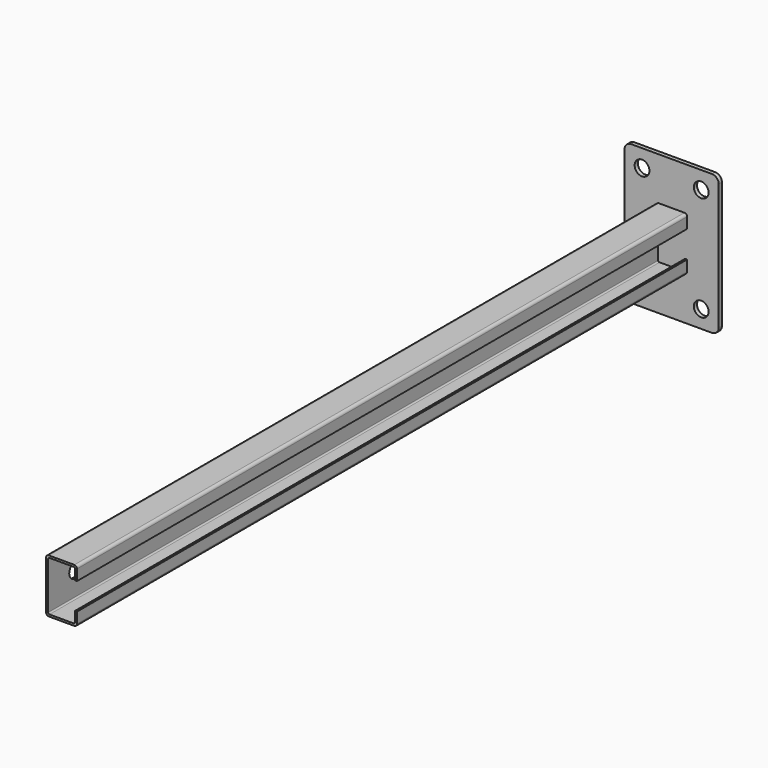
from build123d import *

# Parameters (mm, degrees)
F0_W     = 70
F0_H     = 104
F1_DEPTH = 3
F2_R     = 5
F4_D     = 11
F6_DEPTH = 444
F9_DEPTH = 123
F10_D    = 11


with BuildPart() as f1:
    # F0 (on Front) → F1 (new body)
    with BuildSketch(Plane.XZ):
        with Locations((-71.837332, 40.87914)):
            Rectangle(F0_W, F0_H)
    extrude(amount=F1_DEPTH)

    # F2
    f2_edges = [f1.edges().sort_by_distance(p)[0] for p in [
        (-36.837332, -1.5, 92.87914),
        (-106.837332, -1.5, 92.87914),
        (-106.837332, -1.5, -11.12086),
        (-36.837332, -1.5, -11.12086),
    ]]
    fillet(f2_edges, radius=F2_R)

    # F4 (through all)
    with Locations(Plane.XZ.offset(3)):
        with Locations((-49.837332, 1.87914), (-93.837332, 1.87914), (-93.837332, 79.87914), (-49.837332, 79.87914)):
            Hole(F4_D / 2)

    # F5 (on face) → F6 (join)
    with BuildSketch(Plane.XZ.offset(3)):
        with BuildLine():
            ThreePointArc((-60.337332, 58.87914), (-60.923118, 60.293354), (-62.337332, 60.87914))
            Line((-62.337332, 60.87914), (-81.337332, 60.87914))
            ThreePointArc((-81.337332, 60.87914), (-82.751546, 60.293354), (-83.337332, 58.87914))
            Line((-83.337332, 58.87914), (-83.337332, 22.87914))
            ThreePointArc((-83.337332, 22.87914), (-82.751546, 21.464927), (-81.337332, 20.87914))
            Line((-81.337332, 20.87914), (-62.337332, 20.87914))
            ThreePointArc((-62.337332, 20.87914), (-60.923118, 21.464927), (-60.337332, 22.87914))
            Line((-60.337332, 22.87914), (-60.337332, 30.87914))
            Line((-60.337332, 30.87914), (-61.837332, 30.87914))
            Line((-61.837332, 30.87914), (-61.837332, 23.37914))
            ThreePointArc((-61.837332, 23.37914), (-62.130225, 22.672034), (-62.837332, 22.37914))
            Line((-62.837332, 22.37914), (-80.837332, 22.37914))
            ThreePointArc((-80.837332, 22.37914), (-81.544439, 22.672034), (-81.837332, 23.37914))
            Line((-81.837332, 23.37914), (-81.837332, 58.37914))
            ThreePointArc((-81.837332, 58.37914), (-81.544439, 59.086247), (-80.837332, 59.37914))
            Line((-80.837332, 59.37914), (-62.837332, 59.37914))
            ThreePointArc((-62.837332, 59.37914), (-62.130225, 59.086247), (-61.837332, 58.37914))
            Line((-61.837332, 58.37914), (-61.837332, 50.87914))
            Line((-61.837332, 50.87914), (-60.337332, 50.87914))
            Line((-60.337332, 50.87914), (-60.337332, 58.87914))
        make_face()
    extrude(amount=F6_DEPTH)

    # F7 (on face) → F9 (join)
    with BuildSketch(Plane.XZ.offset(447)):
        with BuildLine():
            ThreePointArc((-62.837332, 59.37914), (-62.130225, 59.086247), (-61.837332, 58.37914))
            Line((-61.837332, 58.37914), (-61.837332, 50.87914))
            Line((-61.837332, 50.87914), (-60.337332, 50.87914))
            Line((-60.337332, 50.87914), (-60.337332, 58.87914))
            ThreePointArc((-60.337332, 58.87914), (-60.923118, 60.293354), (-62.337332, 60.87914))
            Line((-62.337332, 60.87914), (-81.337332, 60.87914))
            ThreePointArc((-81.337332, 60.87914), (-82.751546, 60.293354), (-83.337332, 58.87914))
            Line((-83.337332, 58.87914), (-83.337332, 22.87914))
            ThreePointArc((-83.337332, 22.87914), (-82.751546, 21.464927), (-81.337332, 20.87914))
            Line((-81.337332, 20.87914), (-62.337332, 20.87914))
            ThreePointArc((-62.337332, 20.87914), (-60.923118, 21.464927), (-60.337332, 22.87914))
            Line((-60.337332, 22.87914), (-60.337332, 30.87914))
            Line((-60.337332, 30.87914), (-61.837332, 30.87914))
            Line((-61.837332, 30.87914), (-61.837332, 23.37914))
            ThreePointArc((-61.837332, 23.37914), (-62.130225, 22.672034), (-62.837332, 22.37914))
            Line((-62.837332, 22.37914), (-80.837332, 22.37914))
            ThreePointArc((-80.837332, 22.37914), (-81.544439, 22.672034), (-81.837332, 23.37914))
            Line((-81.837332, 23.37914), (-81.837332, 58.37914))
            ThreePointArc((-81.837332, 58.37914), (-81.544439, 59.086247), (-80.837332, 59.37914))
            Line((-80.837332, 59.37914), (-62.837332, 59.37914))
        make_face()
    extrude(amount=F9_DEPTH)

    # F10 (through all)
    with Locations(Plane(origin=(-83.337332, 0, 0), x_dir=(0, -1, 0), z_dir=(-1, 0, 0))):
        with Locations((544.8542, 40.87914)):
            Hole(F10_D / 2)


solid = f1.part
